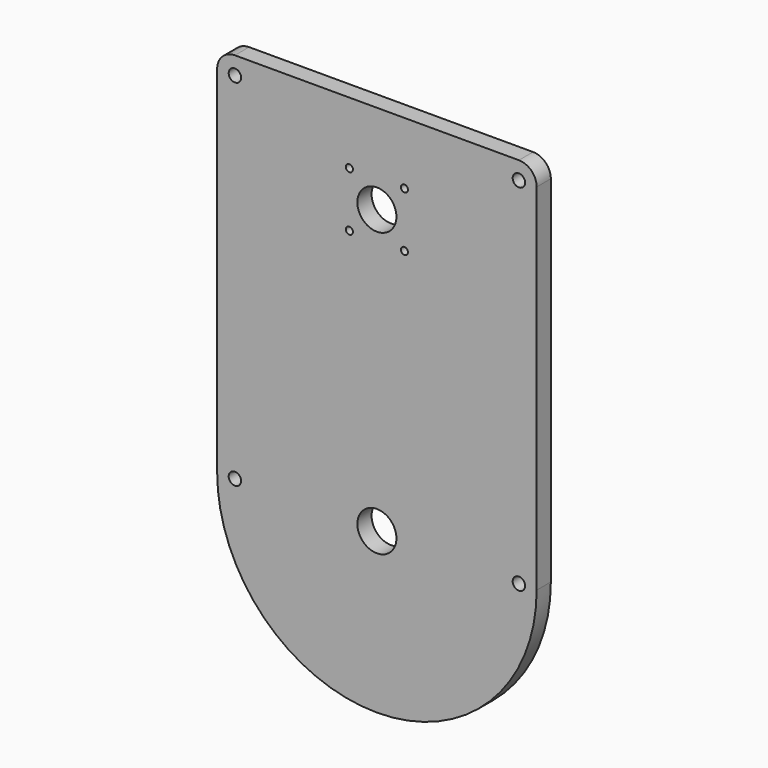
from build123d import *

# Parameters (mm, degrees)
F0_R     = 3.5
F0_R_2   = 11
F0_R_3   = 2
F1_DEPTH = 10


with BuildPart() as f1:
    # F0 (on Front) → F1 (new body)
    with BuildSketch(Plane.XZ):
        with BuildLine():
            ThreePointArc((90, 140), (87.071068, 147.071068), (80, 150))
            Line((80, 150), (-80, 150))
            ThreePointArc((-80, 150), (-87.071068, 147.071068), (-90, 140))
            Line((-90, 140), (-90, -60))
            ThreePointArc((-90, -60), (-63.63961, -123.63961), (0, -150))
            ThreePointArc((0, -150), (63.63961, -123.63961), (90, -60))
            Line((90, -60), (90, 140))
        make_face()
        with Locations((-80, -60)):
            Circle(F0_R, mode=Mode.SUBTRACT)
        with Locations((0, -60)):
            Circle(F0_R_2, mode=Mode.SUBTRACT)
        with Locations((80, -60)):
            Circle(F0_R, mode=Mode.SUBTRACT)
        with Locations((-80, 140)):
            Circle(F0_R, mode=Mode.SUBTRACT)
        with Locations((-15.5, 84)):
            Circle(F0_R_3, mode=Mode.SUBTRACT)
        with Locations((-15.5, 115)):
            Circle(F0_R_3, mode=Mode.SUBTRACT)
        with Locations((15.5, 84)):
            Circle(F0_R_3, mode=Mode.SUBTRACT)
        with Locations((0, 99.5)):
            Circle(F0_R_2, mode=Mode.SUBTRACT)
        with Locations((15.5, 115)):
            Circle(F0_R_3, mode=Mode.SUBTRACT)
        with Locations((80, 140)):
            Circle(F0_R, mode=Mode.SUBTRACT)
    extrude(amount=F1_DEPTH)


solid = f1.part
